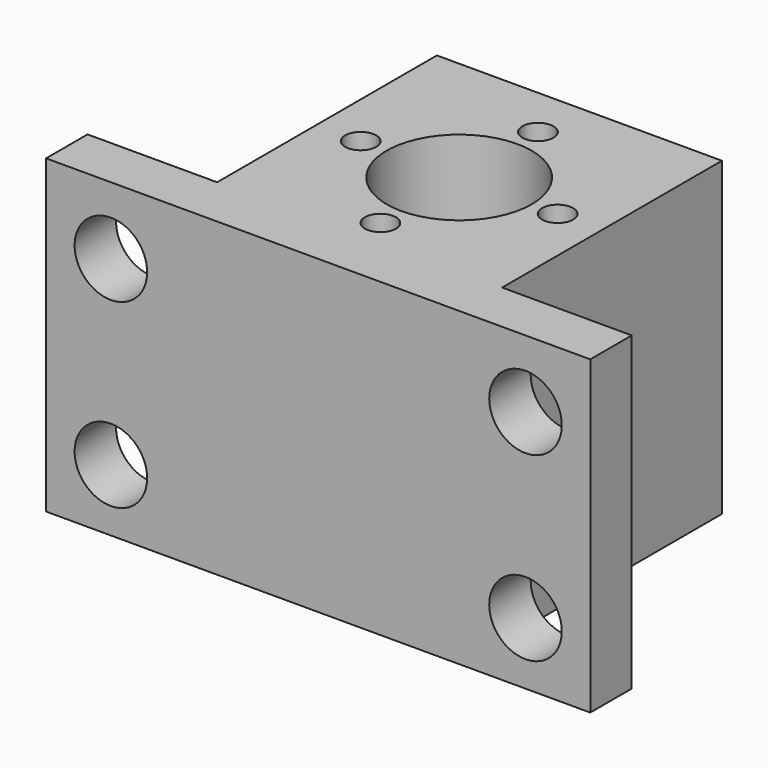
from build123d import *

# Parameters (mm, degrees)
F0_R     = 3
F0_R_2   = 14
F1_DEPTH = 60
F2_R     = 7
F3_DEPTH = 25


with BuildPart() as f1:
    # F0 (on Top) → F1 (new body)
    with BuildSketch(Plane.XY):
        Polygon((-52.5, 10), (-52.5, 0), (52.5, 0), (52.5, 10), (27.5, 10), (27.5, 63), (-27.5, 63), (-27.5, 10), align=None)
        with Locations((0, 15)):
            Circle(F0_R, mode=Mode.SUBTRACT)
        with Locations((-19, 34)):
            Circle(F0_R, mode=Mode.SUBTRACT)
        with Locations((0, 34)):
            Circle(F0_R_2, mode=Mode.SUBTRACT)
        with Locations((19, 34)):
            Circle(F0_R, mode=Mode.SUBTRACT)
        with Locations((0, 53)):
            Circle(F0_R, mode=Mode.SUBTRACT)
    extrude(amount=F1_DEPTH)

    # F2 (on face) → F3 (cut)
    with BuildSketch(Plane(origin=(0, 10, 0), x_dir=(-1, 0, 0), z_dir=(0, 1, 0))):
        with Locations((-40, 47)):
            Circle(F2_R)
        with Locations((-40, 12)):
            Circle(F2_R)
        with Locations((40, 47)):
            Circle(F2_R)
        with Locations((40, 12)):
            Circle(F2_R)
    extrude(amount=-F3_DEPTH, mode=Mode.SUBTRACT)


solid = f1.part
